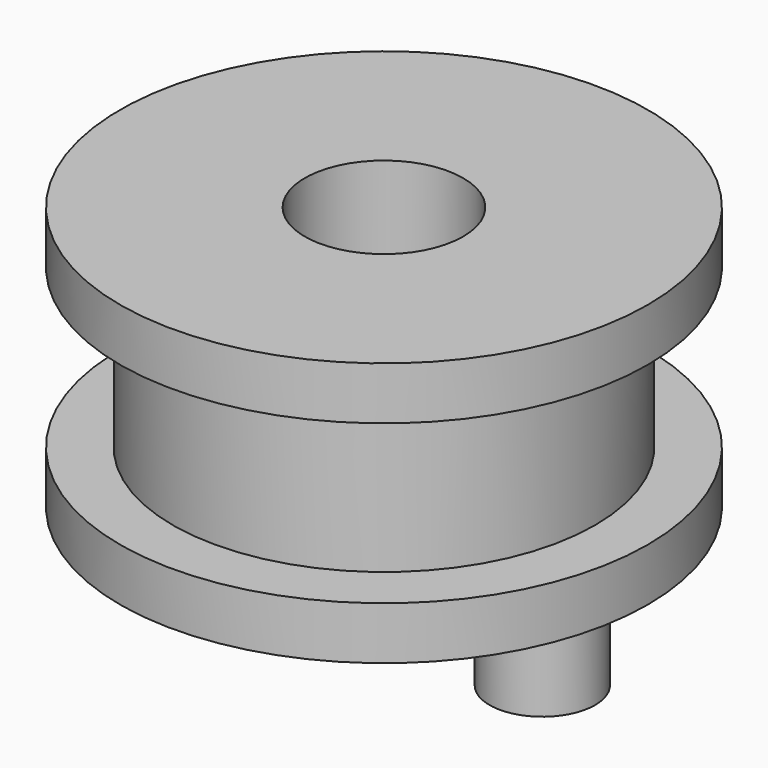
from build123d import *

# Parameters (mm, degrees)
F0_R     = 12.7
F0_R_2   = 4.7625
F1_DEPTH = 12.7
F2_R     = 15.875
F2_R_2   = 4.7625
F3_DEPTH = 3.175
F4_R     = 15.875
F4_R_2   = 4.7625
F5_DEPTH = 3.175
F6_R     = 3.175
F7_DEPTH = 6.35


with BuildPart() as f1:
    # F0 (on Top) → F1 (new body)
    with BuildSketch(Plane.XY):
        Circle(F0_R)
        Circle(F0_R_2, mode=Mode.SUBTRACT)
    extrude(amount=F1_DEPTH)

    # F2 (on face) → F3 (join)
    with BuildSketch(Plane.XY.offset(12.7)):
        Circle(F2_R)
        Circle(F2_R_2, mode=Mode.SUBTRACT)
    extrude(amount=F3_DEPTH)

    # F4 (on Top) → F5 (join)
    with BuildSketch(Plane.XY):
        Circle(F4_R)
        Circle(F4_R_2, mode=Mode.SUBTRACT)
    extrude(amount=F5_DEPTH)

    # F6 (on face) → F7 (join)
    with BuildSketch(Plane(origin=(0, 0, 0), x_dir=(1, 0, 0), z_dir=(0, 0, -1))):
        with Locations((9.525, 0)):
            Circle(F6_R)
    extrude(amount=F7_DEPTH)


solid = f1.part
